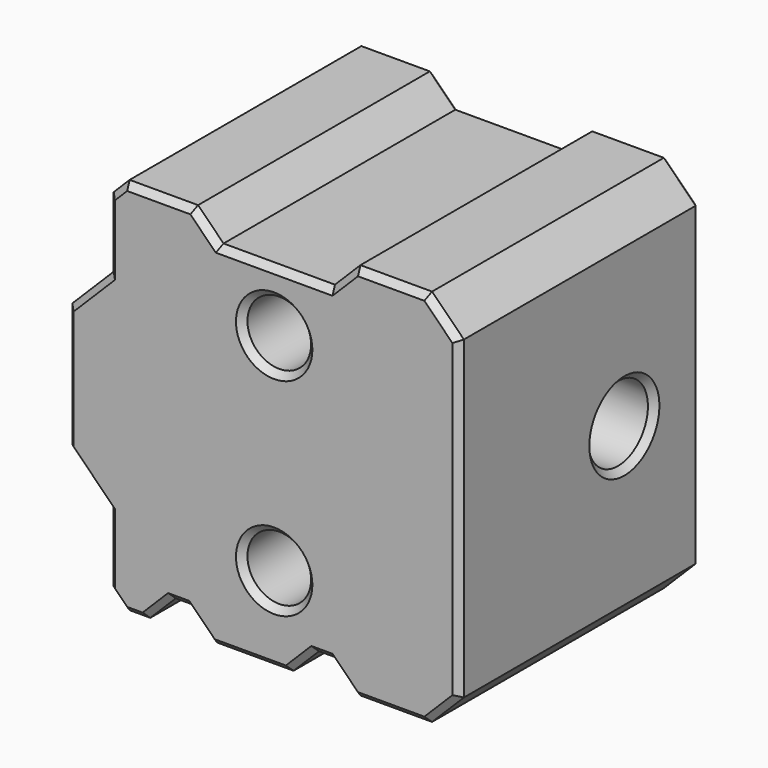
from build123d import *

# Parameters (mm, degrees)
CYLINDER015_R                       = 2.35
CYLINDER015_DEPTH                   = 33
CYLINDER016_R                       = 4.35
CYLINDER016_DEPTH                   = 1
CYLINDER017_R                       = 4.35
CYLINDER017_DEPTH                   = 1
CHAMFER003036_SIZE                  = 0.85
BOX037_W                            = 5
BOX037_H                            = 14
BOX037_DEPTH                        = 19
CHAMFER003068011_SIZE               = 3.1
CYLINDER019_R                       = 2
CYLINDER019_DEPTH                   = 10
CYLINDER018_R                       = 2
CYLINDER018_DEPTH                   = 10
CYLINDER020_R                       = 3
CYLINDER020_DEPTH                   = 20
CYLINDER021_R                       = 3
CYLINDER021_DEPTH                   = 20
BOX011_W                            = 16
BOX011_H                            = 18
BOX011_DEPTH                        = 6
CYLINDER014_R                       = 9
CYLINDER014_DEPTH                   = 16
BOX014_W                            = 4.2
BOX014_H                            = 10
BOX014_DEPTH                        = 22
BOX025_W                            = 4.2
BOX025_H                            = 10
BOX025_DEPTH                        = 22
BOX013_W                            = 10.2
BOX013_H                            = 10
BOX013_DEPTH                        = 22
CHAMFER003068003_SIZE               = 1.6
BOX012_W                            = 22
BOX012_H                            = 23.8
BOX012_DEPTH                        = 19
CHAMFER_SIZE                        = 2
CHAMFER003068012_SIZE               = 1
CHAMFER003068012002_SIZE            = 0.4
CHAMFER003068012003_SIZE            = 0.4
CHAMFER003068012003_PLACEMENT_ANGLE = 90
BASEFEATURE_PLACEMENT_ANGLE         = 90
SKETCH_W                            = 16
SKETCH_H                            = 0.3
PAD_DEPTH                           = 6
BODY_PLACEMENT_ANGLE                = 90


with BuildPart() as cylinder015:
    # Cylinder015 → Cylinder015 (new body)
    with BuildSketch(Plane(origin=(31, 0, 6), x_dir=(0, 0, 1), z_dir=(-1, 0, 0))):
        Circle(CYLINDER015_R)
    extrude(amount=CYLINDER015_DEPTH)


with BuildPart() as cylinder016:
    # Cylinder016 → Cylinder016 (new body)
    with BuildSketch(Plane(origin=(23.15, 0, 6), x_dir=(0, 0, 1), z_dir=(-1, 0, 0))):
        Circle(CYLINDER016_R)
    extrude(amount=CYLINDER016_DEPTH)


with BuildPart() as chamfer003036:
    # Cylinder017 → Cylinder017 (new body)
    with BuildSketch(Plane(origin=(7.85, 0, 6), x_dir=(0, 0, 1), z_dir=(-1, 0, 0))):
        Circle(CYLINDER017_R)
    extrude(amount=CYLINDER017_DEPTH)

    # Fusion013005011005: union Cylinder016
    add(cylinder016.part)

    # Chamfer003036
    chamfer003036_edges = [chamfer003036.edges().sort_by_distance(p)[0] for p in [
        (7.85, 0, 1.65),
        (22.15, 0, 1.65),
    ]]
    chamfer(chamfer003036_edges, length=CHAMFER003036_SIZE)


with BuildPart() as chamfer003068011:
    # Box037 → Box037 (new body)
    with BuildSketch(Plane(origin=(2, -7, 0), x_dir=(1, 0, 0), z_dir=(0, 0, 1))):
        with Locations((2.5, 7)):
            Rectangle(BOX037_W, BOX037_H)
    extrude(amount=BOX037_DEPTH)

    # Chamfer003068011
    chamfer003068011_edges = [chamfer003068011.edges().sort_by_distance(p)[0] for p in [
        (2, -7, 9.5),
        (2, 7, 9.5),
    ]]
    chamfer(chamfer003068011_edges, length=CHAMFER003068011_SIZE)


with BuildPart() as cylinder019:
    # Cylinder019 → Cylinder019 (new body)
    with BuildSketch(Plane(origin=(15, 6.5, 13), x_dir=(1, 0, 0), z_dir=(0, 0, 1))):
        Circle(CYLINDER019_R)
    extrude(amount=CYLINDER019_DEPTH)


with BuildPart() as fusion013005011029006008001003:
    # Cylinder018 → Cylinder018 (new body)
    with BuildSketch(Plane(origin=(15, -6.5, 13), x_dir=(1, 0, 0), z_dir=(0, 0, 1))):
        Circle(CYLINDER018_R)
    extrude(amount=CYLINDER018_DEPTH)

    # Fusion013005011029006008001003: union Cylinder019
    add(cylinder019.part)


with BuildPart() as cylinder020:
    # Cylinder020 → Cylinder020 (new body)
    with BuildSketch(Plane(origin=(15, -6.5, -6.5), x_dir=(1, 0, 0), z_dir=(0, 0, 1))):
        Circle(CYLINDER020_R)
    extrude(amount=CYLINDER020_DEPTH)


with BuildPart() as fusion013005011029006008001004:
    # Cylinder021 → Cylinder021 (new body)
    with BuildSketch(Plane(origin=(15, 6.5, -6.5), x_dir=(1, 0, 0), z_dir=(0, 0, 1))):
        Circle(CYLINDER021_R)
    extrude(amount=CYLINDER021_DEPTH)

    # Fusion: union Cylinder020
    add(cylinder020.part)

    # Fusion013005011029006008001004: union Fusion013005011029006008001003
    add(fusion013005011029006008001003.part)


with BuildPart() as cube011:
    # Box011 → Box011 (new body)
    with BuildSketch(Plane(origin=(7, -9, 0), x_dir=(1, 0, 0), z_dir=(0, 0, 1))):
        with Locations((8, 9)):
            Rectangle(BOX011_W, BOX011_H)
    extrude(amount=BOX011_DEPTH)


with BuildPart() as fusion013005011004:
    # Cylinder014 → Cylinder014 (new body)
    with BuildSketch(Plane(origin=(23, 0, 6), x_dir=(0, 0, 1), z_dir=(-1, 0, 0))):
        Circle(CYLINDER014_R)
    extrude(amount=CYLINDER014_DEPTH)

    # Fusion013005011004: union Cube011
    add(cube011.part)


with BuildPart() as cube014:
    # Box014 → Box014 (new body)
    with BuildSketch(Plane(origin=(6.9, -20.3, 0), x_dir=(1, 0, 0), z_dir=(0, 0, 1))):
        with Locations((2.1, 5)):
            Rectangle(BOX014_W, BOX014_H)
    extrude(amount=BOX014_DEPTH)


with BuildPart() as cube023:
    # Box025 → Box025 (new body)
    with BuildSketch(Plane(origin=(15.9, -20.3, 0), x_dir=(1, 0, 0), z_dir=(0, 0, 1))):
        with Locations((2.1, 5)):
            Rectangle(BOX025_W, BOX025_H)
    extrude(amount=BOX025_DEPTH)


with BuildPart() as chamfer003068003:
    # Box013 → Box013 (new body)
    with BuildSketch(Plane(origin=(9.9, 10.3, 0), x_dir=(1, 0, 0), z_dir=(0, 0, 1))):
        with Locations((5.1, 5)):
            Rectangle(BOX013_W, BOX013_H)
    extrude(amount=BOX013_DEPTH)

    # Fusion013005011029006008001002: union Cube014, Cube023
    add(cube014.part)
    add(cube023.part)

    # Chamfer003068003
    chamfer003068003_edges = [chamfer003068003.edges().sort_by_distance(p)[0] for p in [
        (9.9, 10.3, 11),
        (20.1, 10.3, 11),
        (6.9, -10.3, 11),
        (11.1, -10.3, 11),
        (15.9, -10.3, 11),
        (20.1, -10.3, 11),
    ]]
    chamfer(chamfer003068003_edges, length=CHAMFER003068003_SIZE)


with BuildPart() as body:
    # Box012 → Box012 (new body)
    with BuildSketch(Plane(origin=(4.6, -11.9, 0), x_dir=(1, 0, 0), z_dir=(0, 0, 1))):
        with Locations((11, 11.9)):
            Rectangle(BOX012_W, BOX012_H)
    extrude(amount=BOX012_DEPTH)

    # Cut001001036003: cut Chamfer003068003
    add(chamfer003068003.part, mode=Mode.SUBTRACT)

    # Cut001001036004: cut Fusion013005011004
    add(fusion013005011004.part, mode=Mode.SUBTRACT)

    # Cut: cut Fusion013005011029006008001004
    add(fusion013005011029006008001004.part, mode=Mode.SUBTRACT)

    # Fusion013005011029006008001005: union Chamfer003036, Chamfer003068011
    add(chamfer003036.part)
    add(chamfer003068011.part)

    # Cut001001036005: cut Cylinder015
    add(cylinder015.part, mode=Mode.SUBTRACT)

    # Chamfer
    chamfer_edges = [body.edges().sort_by_distance(p)[0] for p in [
        (26.6, 11.9, 9.5),
        (26.6, -11.9, 9.5),
    ]]
    chamfer(chamfer_edges, length=CHAMFER_SIZE)

    # Chamfer003068012
    chamfer003068012_edges = [body.edges().sort_by_distance(p)[0] for p in [
        (4.6, 11.9, 9.5),
        (4.6, -11.9, 9.5),
    ]]
    chamfer(chamfer003068012_edges, length=CHAMFER003068012_SIZE)

    # Chamfer003068012002
    chamfer003068012002_edges = [body.edges().sort_by_distance(p)[0] for p in [
        (4.6, -8.7, 19),
        (4.6, -8.7, 0),
        (5.1, -11.4, 0),
        (5.1, -11.4, 19),
        (6.25, -11.9, 0),
        (6.25, -11.9, 19),
        (7.7, -11.1, 0),
        (7.7, -11.1, 19),
        (9, -10.3, 0),
        (9, -10.3, 19),
        (10.3, -11.1, 0),
        (10.3, -11.1, 19),
        (7.75, 11.9, 0),
        (7.75, 11.9, 19),
        (5.1, 11.4, 0),
        (5.1, 11.4, 19),
        (10.7, 11.1, 0),
        (10.7, 11.1, 19),
        (4.6, 8.7, 19),
        (4.6, 8.7, 0),
        (15, 10.3, 0),
        (15, 10.3, 19),
        (19.3, 11.1, 0),
        (19.3, 11.1, 19),
        (22.35, 11.9, 0),
        (22.35, 11.9, 19),
        (25.6, 10.9, 0),
        (25.6, 10.9, 19),
        (26.6, 0, 19),
        (26.6, 0, 0),
        (26.6, 0, 3.65),
        (25.6, -10.9, 0),
        (25.6, -10.9, 19),
        (22.35, -11.9, 0),
        (22.35, -11.9, 19),
        (19.3, -11.1, 0),
        (19.3, -11.1, 19),
        (18, -10.3, 0),
        (18, -10.3, 19),
        (16.7, -11.1, 0),
        (16.7, -11.1, 19),
        (13.5, -11.9, 0),
        (13.5, -11.9, 19),
        (3.3, 5.2, 0),
        (3.3, 5.2, 19),
        (3.3, -5.2, 0),
        (3.3, -5.2, 19),
        (2, 0, 19),
        (2, 0, 0),
        (13, -6.5, 19),
        (13, 6.5, 19),
    ]]
    chamfer(chamfer003068012002_edges, length=CHAMFER003068012002_SIZE)

    # Chamfer003068012003
    chamfer003068012003_edges = [body.edges().sort_by_distance(p)[0] for p in [
        (13.341688, -9, 3),
        (12.36626, -7.936459, 10.244128),
        (16.658312, -9, 3),
        (17.358559, -8.353969, 9.348313),
        (16.658312, 9, 3),
        (17.358559, 8.353969, 9.348313),
        (13.341688, 9, 3),
        (12.36626, 7.936459, 10.244128),
    ]]
    chamfer(chamfer003068012003_edges, length=CHAMFER003068012003_SIZE)


with BuildPart() as body_1:
    # Chamfer003068012003 placement: moved
    add(body.part.rotate(Axis((0, 0, 0), (1, 0, 0)), CHAMFER003068012003_PLACEMENT_ANGLE))


with BuildPart() as body_2:
    # BaseFeature placement: moved
    add(body_1.part.rotate(Axis((0, 0, 0), (-1, 0, 0)), BASEFEATURE_PLACEMENT_ANGLE))

    # Sketch (on Face1 of BaseFeature) → Pad (new body)
    with BuildSketch(Plane(origin=(0, 0, 0), x_dir=(1, 0, 0), z_dir=(0, 0, -1))):
        with Locations((15, -9.15)):
            Rectangle(SKETCH_W, SKETCH_H)
    extrude(amount=-PAD_DEPTH)


with BuildPart() as body_3:
    # Body placement: moved
    add(body_2.part.rotate(Axis((0, 0, 0), (1, 0, 0)), BODY_PLACEMENT_ANGLE))


solid = body_3.part
